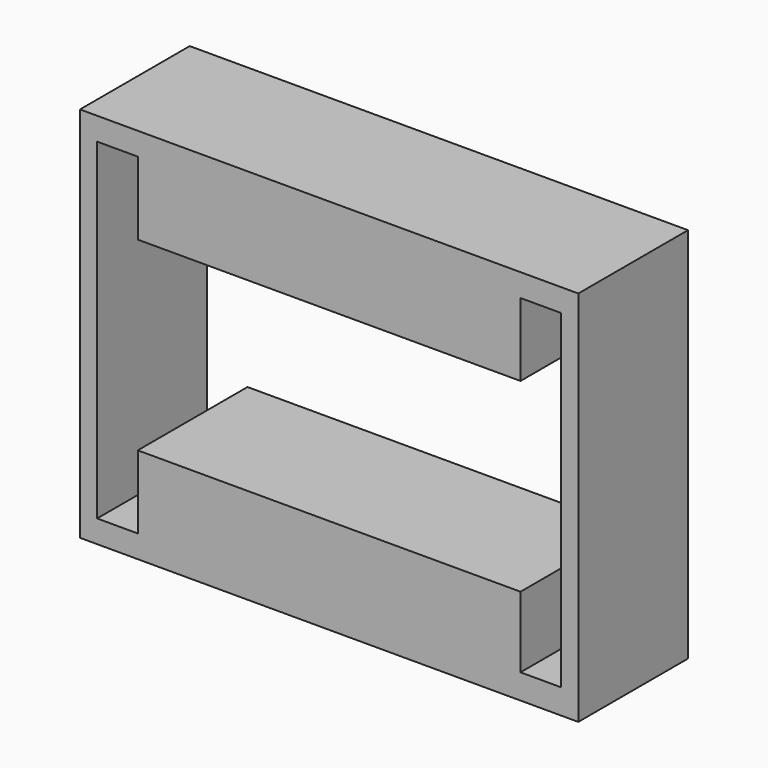
from build123d import *

# Parameters (mm, degrees)
F0_W     = 7.5276412965
F0_H     = 4.1936162889
F0_H_2   = 4.2179312587
F0_H_3   = 4.6066764772
F1_DEPTH = 25.4


with BuildPart() as f1:
    # F0 (on Front) → F1 (new body)
    with BuildSketch(Plane.XZ):
        Polygon((-46.1431788322, 34.925), (-46.1431788322, -34.925), (-42.9681788322, -34.925), (-42.9681788322, -30.7313837111), (-42.9681788322, 30.7070687413), (-42.9681788322, 34.925), align=None)
        with Locations((-39.2043581839, -32.8281918555)):
            Rectangle(F0_W, F0_H)
        Polygon((-35.4405375357, -30.7313837111), (-35.4405375357, -34.925), (35.4405375357, -34.925), (35.4405375357, -30.3183235228), (35.4405375357, -17.1783537864), (-35.4405375357, -17.1783537864), align=None)
        with Locations((-39.2043581839, 32.8160343707)):
            Rectangle(F0_W, F0_H_2)
        with Locations((39.2043581839, -32.6216617614)):
            Rectangle(F0_W, F0_H_3)
        Polygon((35.4405375357, 34.925), (-35.4405375357, 34.925), (-35.4405375357, 30.7070687413), (-35.4405375357, 17.1783537864), (35.4405375357, 17.1783537864), (35.4405375357, 30.7070687413), align=None)
        Polygon((42.9681788322, -30.3183235228), (42.9681788322, -34.925), (46.1431788322, -34.925), (46.1431788322, 34.925), (42.9681788322, 34.925), (42.9681788322, 30.7070687413), align=None)
        with Locations((39.2043581839, 32.8160343707)):
            Rectangle(F0_W, F0_H_2)
    extrude(amount=F1_DEPTH)


solid = f1.part
